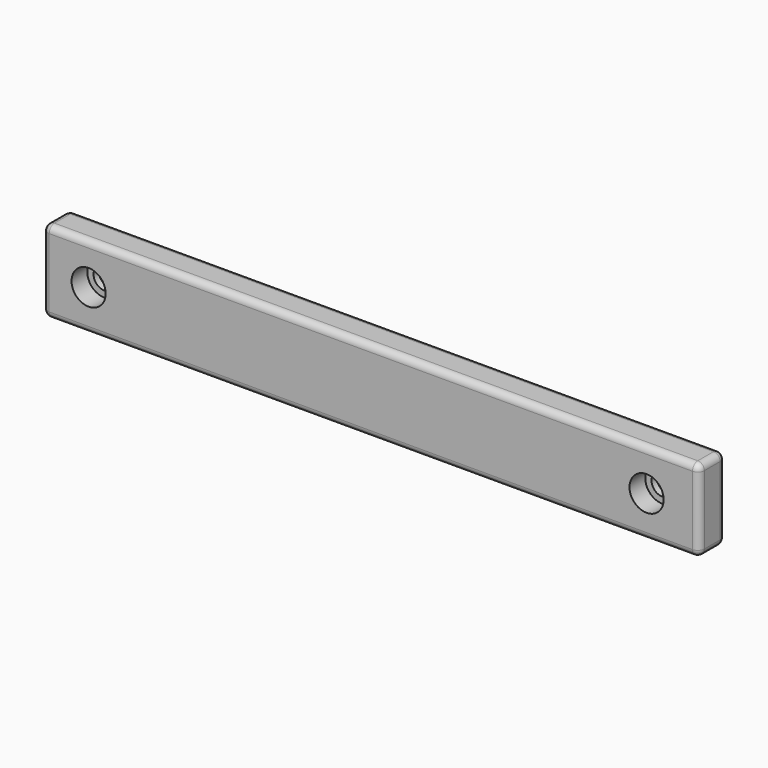
from build123d import *

# Parameters (mm, degrees)
CYLINDER016_R     = 5.2
CYLINDER016_DEPTH = 6
CYLINDER017_R     = 3.3
CYLINDER017_DEPTH = 20
CYLINDER018_R     = 3.3
CYLINDER018_DEPTH = 20
CYLINDER015_R     = 5.2
CYLINDER015_DEPTH = 6
CYLINDER014_R     = 8.1
CYLINDER014_DEPTH = 20
CYLINDER013_R     = 8.1
CYLINDER013_DEPTH = 20
BOX002_W          = 200
BOX002_H          = 10
BOX002_DEPTH      = 25
FILLET_R          = 2


with BuildPart() as zylinder016:
    # Cylinder016 → Cylinder016 (new body)
    with BuildSketch(Plane(origin=(250, -22, 40), x_dir=(1, 0, 0), z_dir=(0, -1, 0))):
        Circle(CYLINDER016_R)
    extrude(amount=CYLINDER016_DEPTH)


with BuildPart() as zylinder017:
    # Cylinder017 → Cylinder017 (new body)
    with BuildSketch(Plane(origin=(80, -10, 40), x_dir=(1, 0, 0), z_dir=(0, -1, 0))):
        Circle(CYLINDER017_R)
    extrude(amount=CYLINDER017_DEPTH)


with BuildPart() as zylinder018:
    # Cylinder018 → Cylinder018 (new body)
    with BuildSketch(Plane(origin=(250, -10, 40), x_dir=(1, 0, 0), z_dir=(0, -1, 0))):
        Circle(CYLINDER018_R)
    extrude(amount=CYLINDER018_DEPTH)


with BuildPart() as fusion004:
    # Cylinder015 → Cylinder015 (new body)
    with BuildSketch(Plane(origin=(80, -22, 40), x_dir=(1, 0, 0), z_dir=(0, -1, 0))):
        Circle(CYLINDER015_R)
    extrude(amount=CYLINDER015_DEPTH)

    # Fusion004: union Zylinder016, Zylinder017, Zylinder018
    add(zylinder016.part)
    add(zylinder017.part)
    add(zylinder018.part)


with BuildPart() as zylinder014:
    # Cylinder014 → Cylinder014 (new body)
    with BuildSketch(Plane(origin=(250, 0, 40), x_dir=(1, 0, 0), z_dir=(0, -1, 0))):
        Circle(CYLINDER014_R)
    extrude(amount=CYLINDER014_DEPTH)


with BuildPart() as zylinder013:
    # Cylinder013 → Cylinder013 (new body)
    with BuildSketch(Plane(origin=(80, 0, 40), x_dir=(1, 0, 0), z_dir=(0, -1, 0))):
        Circle(CYLINDER013_R)
    extrude(amount=CYLINDER013_DEPTH)


with BuildPart() as obj1:
    # Box002 → Box002 (new body)
    with BuildSketch(Plane(origin=(66, -28, 27.5), x_dir=(1, 0, 0), z_dir=(0, 0, 1))):
        with Locations((100, 5)):
            Rectangle(BOX002_W, BOX002_H)
    extrude(amount=BOX002_DEPTH)

    # Cut008: cut Zylinder013
    add(zylinder013.part, mode=Mode.SUBTRACT)

    # Cut009: cut Zylinder014
    add(zylinder014.part, mode=Mode.SUBTRACT)

    # Cut010: cut Fusion004
    add(fusion004.part, mode=Mode.SUBTRACT)

    # Fillet
    fillet_edges = [obj1.edges().sort_by_distance(p)[0] for p in [
        (66, -28, 40),
        (66, -23, 52.5),
        (66, -18, 40),
        (66, -23, 27.5),
        (166, -28, 27.5),
        (266, -28, 40),
        (166, -28, 52.5),
        (166, -18, 52.5),
        (266, -23, 52.5),
        (166, -18, 27.5),
        (266, -18, 40),
        (266, -23, 27.5),
    ]]
    fillet(fillet_edges, radius=FILLET_R)


with BuildPart() as obj1_1:
    # Fillet placement: moved
    add(obj1.part.moved(Location((0, -5, 0))))


solid = obj1_1.part
